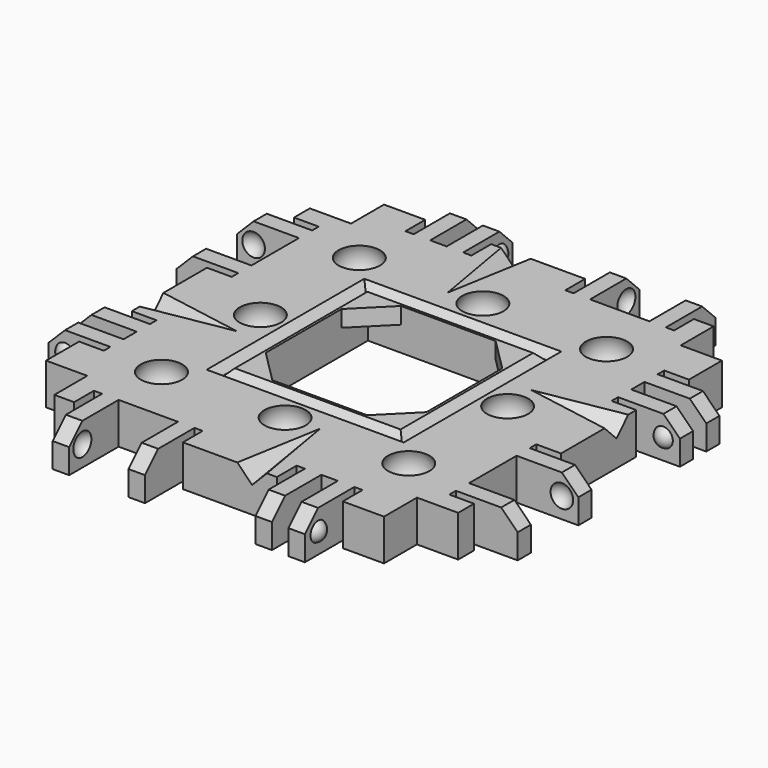
from build123d import *

# Parameters (mm, degrees)
SPHERE084_PLACEMENT_ANGLE   = 90
SPHERE086_PLACEMENT_ANGLE   = 90
SPHERE088_PLACEMENT_ANGLE   = -90
CYLINDER032_R               = 1.7
CYLINDER032_DEPTH           = 10
CYLINDER033_R               = 1.7
CYLINDER033_DEPTH           = 10
CYLINDER033_PLACEMENT_ANGLE = -90
CYLINDER031_R               = 1.7
CYLINDER031_DEPTH           = 10
CYLINDER031_PLACEMENT_ANGLE = 90
CYLINDER030_R               = 1.7
CYLINDER030_DEPTH           = 10
CYLINDER029_R               = 1.7
CYLINDER029_DEPTH           = 10
CYLINDER029_PLACEMENT_ANGLE = 90
BOX208_W                    = 10
BOX208_H                    = 15
BOX208_DEPTH                = 10
BOX208_ROLL_ANGLE           = 14.001942
BOX208_PITCH_ANGLE          = -44.136029
BOX208_PLACEMENT_ANGLE      = -99.851076
BOX207_W                    = 10
BOX207_H                    = 15
BOX207_DEPTH                = 10
BOX207_ROLL_ANGLE           = 14.001942
BOX207_PITCH_ANGLE          = -44.136029
BOX207_PLACEMENT_ANGLE      = 170.148924
BOX206_W                    = 10
BOX206_H                    = 15
BOX206_DEPTH                = 10
BOX206_ROLL_ANGLE           = 14.001942
BOX206_PITCH_ANGLE          = -44.136029
BOX206_PLACEMENT_ANGLE      = 80.148924
BOX086_W                    = 10
BOX086_H                    = 15
BOX086_DEPTH                = 10
BOX086_ROLL_ANGLE           = 14.001942
BOX086_PITCH_ANGLE          = -44.136029
BOX086_PLACEMENT_ANGLE      = -9.851076
BOX085_W                    = 19.5
BOX085_H                    = 19.5
BOX085_DEPTH                = 15
BOX076_W                    = 19.5
BOX076_H                    = 19.5
BOX076_DEPTH                = 15
CHAMFER008_SIZE             = 4
CYLINDER025_R               = 1.7
CYLINDER025_DEPTH           = 10
CYLINDER026_R               = 1.7
CYLINDER026_DEPTH           = 10
CYLINDER024_R               = 1.7
CYLINDER024_DEPTH           = 10
BOX169_W                    = 13
BOX169_H                    = 40
BOX169_DEPTH                = 10
BOX169_PITCH_ANGLE          = -45
BOX177_W                    = 12
BOX177_H                    = 44
BOX177_DEPTH                = 10
BOX176_W                    = 20
BOX176_H                    = 44
BOX176_DEPTH                = 10
BOX172_W                    = 4
BOX172_H                    = 1
BOX172_DEPTH                = 7
BOX174_W                    = 4
BOX174_H                    = 1
BOX174_DEPTH                = 7
BOX171_W                    = 4
BOX171_H                    = 2
BOX171_DEPTH                = 7
BOX173_W                    = 4
BOX173_H                    = 1
BOX173_DEPTH                = 7
BOX170_W                    = 4
BOX170_H                    = 1
BOX170_DEPTH                = 7
BOX175_W                    = 4
BOX175_H                    = 7.2
BOX175_DEPTH                = 7
BOX165_W                    = 10
BOX165_H                    = 2
BOX165_DEPTH                = 7
BOX166_W                    = 10
BOX166_H                    = 2
BOX166_DEPTH                = 7
BOX167_W                    = 10
BOX167_H                    = 2
BOX167_DEPTH                = 7
BOX168_W                    = 10
BOX168_H                    = 2
BOX168_DEPTH                = 7
BOX164_W                    = 5
BOX164_H                    = 40
BOX164_DEPTH                = 7
CUT069_PLACEMENT_ANGLE      = 90
BOX191_W                    = 13
BOX191_H                    = 40
BOX191_DEPTH                = 10
BOX191_PITCH_ANGLE          = -45
BOX187_W                    = 12
BOX187_H                    = 44
BOX187_DEPTH                = 10
BOX180_W                    = 20
BOX180_H                    = 44
BOX180_DEPTH                = 10
BOX182_W                    = 4
BOX182_H                    = 1
BOX182_DEPTH                = 7
BOX184_W                    = 4
BOX184_H                    = 1
BOX184_DEPTH                = 7
BOX186_W                    = 4
BOX186_H                    = 2
BOX186_DEPTH                = 7
BOX185_W                    = 4
BOX185_H                    = 1
BOX185_DEPTH                = 7
BOX189_W                    = 4
BOX189_H                    = 1
BOX189_DEPTH                = 7
BOX181_W                    = 4
BOX181_H                    = 7.2
BOX181_DEPTH                = 7
BOX190_W                    = 10
BOX190_H                    = 2
BOX190_DEPTH                = 7
BOX179_W                    = 10
BOX179_H                    = 2
BOX179_DEPTH                = 7
BOX183_W                    = 10
BOX183_H                    = 2
BOX183_DEPTH                = 7
BOX188_W                    = 10
BOX188_H                    = 2
BOX188_DEPTH                = 7
BOX178_W                    = 5
BOX178_H                    = 40
BOX178_DEPTH                = 7
CUT074_PLACEMENT_ANGLE      = 180
BOX193_W                    = 13
BOX193_H                    = 40
BOX193_DEPTH                = 10
BOX193_PITCH_ANGLE          = -45
BOX203_W                    = 12
BOX203_H                    = 44
BOX203_DEPTH                = 10
BOX194_W                    = 20
BOX194_H                    = 44
BOX194_DEPTH                = 10
BOX198_W                    = 4
BOX198_H                    = 1
BOX198_DEPTH                = 7
BOX204_W                    = 4
BOX204_H                    = 1
BOX204_DEPTH                = 7
BOX201_W                    = 4
BOX201_H                    = 2
BOX201_DEPTH                = 7
BOX200_W                    = 4
BOX200_H                    = 1
BOX200_DEPTH                = 7
BOX197_W                    = 4
BOX197_H                    = 1
BOX197_DEPTH                = 7
BOX199_W                    = 4
BOX199_H                    = 7.2
BOX199_DEPTH                = 7
BOX192_W                    = 10
BOX192_H                    = 2
BOX192_DEPTH                = 7
BOX195_W                    = 10
BOX195_H                    = 2
BOX195_DEPTH                = 7
BOX202_W                    = 10
BOX202_H                    = 2
BOX202_DEPTH                = 7
BOX205_W                    = 10
BOX205_H                    = 2
BOX205_DEPTH                = 7
BOX196_W                    = 5
BOX196_H                    = 40
BOX196_DEPTH                = 7
CUT079_PLACEMENT_ANGLE      = -90
BOX006_W                    = 13
BOX006_H                    = 40
BOX006_DEPTH                = 10
BOX006_PITCH_ANGLE          = -45
BOX149_W                    = 12
BOX149_H                    = 44
BOX149_DEPTH                = 10
BOX013_W                    = 20
BOX013_H                    = 44
BOX013_DEPTH                = 10
BOX009_W                    = 4
BOX009_H                    = 1
BOX009_DEPTH                = 7
BOX011_W                    = 4
BOX011_H                    = 1
BOX011_DEPTH                = 7
BOX008_W                    = 4
BOX008_H                    = 2
BOX008_DEPTH                = 7
BOX010_W                    = 4
BOX010_H                    = 1
BOX010_DEPTH                = 7
BOX007_W                    = 4
BOX007_H                    = 1
BOX007_DEPTH                = 7
BOX012_W                    = 4
BOX012_H                    = 7.2
BOX012_DEPTH                = 7
BOX002_W                    = 10
BOX002_H                    = 2
BOX002_DEPTH                = 7
BOX003_W                    = 10
BOX003_H                    = 2
BOX003_DEPTH                = 7
BOX004_W                    = 10
BOX004_H                    = 2
BOX004_DEPTH                = 7
BOX005_W                    = 10
BOX005_H                    = 2
BOX005_DEPTH                = 7
BOX001_W                    = 5
BOX001_H                    = 40
BOX001_DEPTH                = 7
BOX084_W                    = 20
BOX084_H                    = 20
BOX084_DEPTH                = 14
BOX083_W                    = 24
BOX083_H                    = 24
BOX083_DEPTH                = 10
CHAMFER007_SIZE             = 0.95
BOX_W                       = 40
BOX_H                       = 40
BOX_DEPTH                   = 5


with BuildPart() as sphere087:
    # Sphere087 → Sphere087 (revolve)
    with BuildSketch(Plane(origin=(-15, 0, 1.7), x_dir=(-1, 0, 0), z_dir=(0, 1, 0))):
        with BuildLine():
            ThreePointArc((0, -2.825), (2.825, 0), (0, 2.825))
            Line((0, 2.825), (0, -2.825))
        make_face()
    revolve(axis=Axis((-15, 0, 1.7), (0, 0, 1)))


with BuildPart() as mag_hole001:
    # Sphere084 → Sphere084 (revolve)
    with BuildSketch(Plane.XZ):
        with BuildLine():
            ThreePointArc((0, -2.83), (2.83, 0), (0, 2.83))
            Line((0, 2.83), (0, -2.83))
        make_face()
    revolve(axis=Axis((0, 0, 0), (0, 0, 1)))


with BuildPart() as mag_hole001_1:
    # Sphere084 placement: moved
    add(mag_hole001.part.moved(Location((15, -15, 1.7))).rotate(Axis((15, -15, 1.7), (0, 0, 1)), SPHERE084_PLACEMENT_ANGLE))


with BuildPart() as sphere086:
    # Sphere086 → Sphere086 (revolve)
    with BuildSketch(Plane.XZ):
        with BuildLine():
            ThreePointArc((0, -2.825), (2.825, 0), (0, 2.825))
            Line((0, 2.825), (0, -2.825))
        make_face()
    revolve(axis=Axis((0, 0, 0), (0, 0, 1)))


with BuildPart() as sphere086_1:
    # Sphere086 placement: moved
    add(sphere086.part.moved(Location((0, 15, 1.7))).rotate(Axis((0, 15, 1.7), (0, 0, 1)), SPHERE086_PLACEMENT_ANGLE))


with BuildPart() as sphere088:
    # Sphere088 → Sphere088 (revolve)
    with BuildSketch(Plane.XZ):
        with BuildLine():
            ThreePointArc((0, -2.825), (2.825, 0), (0, 2.825))
            Line((0, 2.825), (0, -2.825))
        make_face()
    revolve(axis=Axis((0, 0, 0), (0, 0, 1)))


with BuildPart() as sphere088_1:
    # Sphere088 placement: moved
    add(sphere088.part.moved(Location((0, -15, 1.7))).rotate(Axis((0, -15, 1.7), (0, 0, 1)), SPHERE088_PLACEMENT_ANGLE))


with BuildPart() as cylinder032:
    # Cylinder032 → Cylinder032 (new body)
    with BuildSketch(Plane(origin=(-15, 0, -5), x_dir=(-1, 0, 0), z_dir=(0, 0, 1))):
        Circle(CYLINDER032_R)
    extrude(amount=CYLINDER032_DEPTH)


with BuildPart() as cylinder033:
    # Cylinder033 → Cylinder033 (new body)
    with BuildSketch(Plane.XY):
        Circle(CYLINDER033_R)
    extrude(amount=CYLINDER033_DEPTH)


with BuildPart() as cylinder033_1:
    # Cylinder033 placement: moved
    add(cylinder033.part.moved(Location((0, -15, -5))).rotate(Axis((0, -15, -5), (0, 0, 1)), CYLINDER033_PLACEMENT_ANGLE))


with BuildPart() as mag_hole002:
    # Sphere085 → Sphere085 (revolve)
    with BuildSketch(Plane(origin=(15, 15, 1.7), x_dir=(-1, 0, 0), z_dir=(0, 1, 0))):
        with BuildLine():
            ThreePointArc((0, -2.83), (2.83, 0), (0, 2.83))
            Line((0, 2.83), (0, -2.83))
        make_face()
    revolve(axis=Axis((15, 15, 1.7), (0, 0, 1)))


with BuildPart() as cylinder031:
    # Cylinder031 → Cylinder031 (new body)
    with BuildSketch(Plane.XY):
        Circle(CYLINDER031_R)
    extrude(amount=CYLINDER031_DEPTH)


with BuildPart() as cylinder031_1:
    # Cylinder031 placement: moved
    add(cylinder031.part.moved(Location((0, 15, -5))).rotate(Axis((0, 15, -5), (0, 0, 1)), CYLINDER031_PLACEMENT_ANGLE))


with BuildPart() as cylinder030:
    # Cylinder030 → Cylinder030 (new body)
    with BuildSketch(Plane(origin=(15, 15, -5), x_dir=(-1, 0, 0), z_dir=(0, 0, 1))):
        Circle(CYLINDER030_R)
    extrude(amount=CYLINDER030_DEPTH)


with BuildPart() as fusion103007:
    # Cylinder029 → Cylinder029 (new body)
    with BuildSketch(Plane.XY):
        Circle(CYLINDER029_R)
    extrude(amount=CYLINDER029_DEPTH)


with BuildPart() as fusion103007_1:
    # Cylinder029 placement: moved
    add(fusion103007.part.moved(Location((15, -15, -5))).rotate(Axis((15, -15, -5), (0, 0, 1)), CYLINDER029_PLACEMENT_ANGLE))

    # Fusion103007: union Sphere087, Mag Hole001, Sphere086, Sphere088, Cylinder032, Cylinder033, Mag Hole002, Cylinder031, Cylinder030
    add(sphere087.part)
    add(mag_hole001_1.part)
    add(sphere086_1.part)
    add(sphere088_1.part)
    add(cylinder032.part)
    add(cylinder033_1.part)
    add(mag_hole002.part)
    add(cylinder031_1.part)
    add(cylinder030.part)


with BuildPart() as cube179:
    # Box208 → Box208 (new body)
    with BuildSketch(Plane.XY):
        with Locations((5, 7.5)):
            Rectangle(BOX208_W, BOX208_H)
    extrude(amount=BOX208_DEPTH)


with BuildPart() as cube179_1:
    # Box208 roll: moved
    add(cube179.part.rotate(Axis((0, 0, 0), (1, 0, 0)), BOX208_ROLL_ANGLE))


with BuildPart() as cube179_2:
    # Box208 pitch: moved
    add(cube179_1.part.rotate(Axis((0, 0, 0), (0, 1, 0)), BOX208_PITCH_ANGLE))


with BuildPart() as cube179_3:
    # Box208 placement: moved
    add(cube179_2.part.moved(Location((-26, -4, 1))).rotate(Axis((-26, -4, 1), (0, 0, 1)), BOX208_PLACEMENT_ANGLE))


with BuildPart() as cube178:
    # Box207 → Box207 (new body)
    with BuildSketch(Plane.XY):
        with Locations((5, 7.5)):
            Rectangle(BOX207_W, BOX207_H)
    extrude(amount=BOX207_DEPTH)


with BuildPart() as cube178_1:
    # Box207 roll: moved
    add(cube178.part.rotate(Axis((0, 0, 0), (1, 0, 0)), BOX207_ROLL_ANGLE))


with BuildPart() as cube178_2:
    # Box207 pitch: moved
    add(cube178_1.part.rotate(Axis((0, 0, 0), (0, 1, 0)), BOX207_PITCH_ANGLE))


with BuildPart() as cube178_3:
    # Box207 placement: moved
    add(cube178_2.part.moved(Location((-4, 26, 1))).rotate(Axis((-4, 26, 1), (0, 0, 1)), BOX207_PLACEMENT_ANGLE))


with BuildPart() as cube177:
    # Box206 → Box206 (new body)
    with BuildSketch(Plane.XY):
        with Locations((5, 7.5)):
            Rectangle(BOX206_W, BOX206_H)
    extrude(amount=BOX206_DEPTH)


with BuildPart() as cube177_1:
    # Box206 roll: moved
    add(cube177.part.rotate(Axis((0, 0, 0), (1, 0, 0)), BOX206_ROLL_ANGLE))


with BuildPart() as cube177_2:
    # Box206 pitch: moved
    add(cube177_1.part.rotate(Axis((0, 0, 0), (0, 1, 0)), BOX206_PITCH_ANGLE))


with BuildPart() as cube177_3:
    # Box206 placement: moved
    add(cube177_2.part.moved(Location((26, 4, 1))).rotate(Axis((26, 4, 1), (0, 0, 1)), BOX206_PLACEMENT_ANGLE))


with BuildPart() as glue_dents:
    # Box086 → Box086 (new body)
    with BuildSketch(Plane.XY):
        with Locations((5, 7.5)):
            Rectangle(BOX086_W, BOX086_H)
    extrude(amount=BOX086_DEPTH)


with BuildPart() as glue_dents_1:
    # Box086 roll: moved
    add(glue_dents.part.rotate(Axis((0, 0, 0), (1, 0, 0)), BOX086_ROLL_ANGLE))


with BuildPart() as glue_dents_2:
    # Box086 pitch: moved
    add(glue_dents_1.part.rotate(Axis((0, 0, 0), (0, 1, 0)), BOX086_PITCH_ANGLE))


with BuildPart() as glue_dents_3:
    # Box086 placement: moved
    add(glue_dents_2.part.moved(Location((4, -26, 1))).rotate(Axis((4, -26, 1), (0, 0, 1)), BOX086_PLACEMENT_ANGLE))

    # Fusion078: union Cube179, Cube178, Cube177
    add(cube179_3.part)
    add(cube178_3.part)
    add(cube177_3.part)


with BuildPart() as cube069:
    # Box085 → Box085 (new body)
    with BuildSketch(Plane(origin=(-9.75, -9.75, -14), x_dir=(1, 0, 0), z_dir=(0, 0, 1))):
        with Locations((9.75, 9.75)):
            Rectangle(BOX085_W, BOX085_H)
    extrude(amount=BOX085_DEPTH)


with BuildPart() as obj1:
    # Box076 → Box076 (new body)
    with BuildSketch(Plane(origin=(-9.75, -9.75, -3), x_dir=(1, 0, 0), z_dir=(0, 0, 1))):
        with Locations((9.75, 9.75)):
            Rectangle(BOX076_W, BOX076_H)
    extrude(amount=BOX076_DEPTH)

    # Chamfer008
    chamfer008_edges = [obj1.edges().sort_by_distance(p)[0] for p in [
        (-9.75, -9.75, 4.5),
        (-9.75, 9.75, 4.5),
        (9.75, -9.75, 4.5),
        (9.75, 9.75, 4.5),
    ]]
    chamfer(chamfer008_edges, length=CHAMFER008_SIZE)


with BuildPart() as cylinder025:
    # Cylinder025 → Cylinder025 (new body)
    with BuildSketch(Plane(origin=(15, 0, -5), x_dir=(1, 0, 0), z_dir=(0, 0, 1))):
        Circle(CYLINDER025_R)
    extrude(amount=CYLINDER025_DEPTH)


with BuildPart() as cylinder026:
    # Cylinder026 → Cylinder026 (new body)
    with BuildSketch(Plane(origin=(-15, 15, -5), x_dir=(1, 0, 0), z_dir=(0, 0, 1))):
        Circle(CYLINDER026_R)
    extrude(amount=CYLINDER026_DEPTH)


with BuildPart() as screw_holes_to_remove_ball_mags:
    # Cylinder024 → Cylinder024 (new body)
    with BuildSketch(Plane(origin=(-15, -15, -5), x_dir=(1, 0, 0), z_dir=(0, 0, 1))):
        Circle(CYLINDER024_R)
    extrude(amount=CYLINDER024_DEPTH)

    # Fusion052: union Cylinder025, Cylinder026
    add(cylinder025.part)
    add(cylinder026.part)


with BuildPart() as chamfer_cube002:
    # Box169 → Box169 (new body)
    with BuildSketch(Plane.XY):
        with Locations((6.5, 20)):
            Rectangle(BOX169_W, BOX169_H)
    extrude(amount=BOX169_DEPTH)


with BuildPart() as chamfer_cube002_1:
    # Box169 pitch: moved
    add(chamfer_cube002.part.rotate(Axis((0, 0, 0), (0, 1, 0)), BOX169_PITCH_ANGLE))


with BuildPart() as chamfer_cube002_2:
    # Box169 placement: moved
    add(chamfer_cube002_1.part.moved(Location((-11.69, 0, -1.19))))


with BuildPart() as re_level_edge_clip_block005:
    # Box177 → Box177 (new body)
    with BuildSketch(Plane(origin=(-21.5, -2, -7), x_dir=(1, 0, 0), z_dir=(0, 0, 1))):
        with Locations((6, 22)):
            Rectangle(BOX177_W, BOX177_H)
    extrude(amount=BOX177_DEPTH)


with BuildPart() as re_level_edge_clip_block004:
    # Box176 → Box176 (new body)
    with BuildSketch(Plane(origin=(-19, -2, 3), x_dir=(1, 0, 0), z_dir=(0, 0, 1))):
        with Locations((10, 22)):
            Rectangle(BOX176_W, BOX176_H)
    extrude(amount=BOX176_DEPTH)


with BuildPart() as cube151:
    # Box172 → Box172 (new body)
    with BuildSketch(Plane(origin=(-6, 12, -2), x_dir=(1, 0, 0), z_dir=(0, 0, 1))):
        with Locations((2, 0.5)):
            Rectangle(BOX172_W, BOX172_H)
    extrude(amount=BOX172_DEPTH)


with BuildPart() as cube153:
    # Box174 → Box174 (new body)
    with BuildSketch(Plane(origin=(-6, 36.6, -2), x_dir=(1, 0, 0), z_dir=(0, 0, 1))):
        with Locations((2, 0.5)):
            Rectangle(BOX174_W, BOX174_H)
    extrude(amount=BOX174_DEPTH)


with BuildPart() as cube150:
    # Box171 → Box171 (new body)
    with BuildSketch(Plane(origin=(-6, 8, -2), x_dir=(1, 0, 0), z_dir=(0, 0, 1))):
        with Locations((2, 1)):
            Rectangle(BOX171_W, BOX171_H)
    extrude(amount=BOX171_DEPTH)


with BuildPart() as cube152:
    # Box173 → Box173 (new body)
    with BuildSketch(Plane(origin=(-6, 24.4, -2), x_dir=(1, 0, 0), z_dir=(0, 0, 1))):
        with Locations((2, 0.5)):
            Rectangle(BOX173_W, BOX173_H)
    extrude(amount=BOX173_DEPTH)


with BuildPart() as cube149:
    # Box170 → Box170 (new body)
    with BuildSketch(Plane(origin=(-6, 5, -2), x_dir=(1, 0, 0), z_dir=(0, 0, 1))):
        with Locations((2, 0.5)):
            Rectangle(BOX170_W, BOX170_H)
    extrude(amount=BOX170_DEPTH)


with BuildPart() as extra_holes_for_clips002:
    # Box175 → Box175 (new body)
    with BuildSketch(Plane(origin=(-6, 27.4, -2), x_dir=(1, 0, 0), z_dir=(0, 0, 1))):
        with Locations((2, 3.6)):
            Rectangle(BOX175_W, BOX175_H)
    extrude(amount=BOX175_DEPTH)

    # Fusion061: union Cube151, Cube153, Cube150, Cube152, Cube149
    add(cube151.part)
    add(cube153.part)
    add(cube150.part)
    add(cube152.part)
    add(cube149.part)


with BuildPart() as sphere058:
    # Sphere058 → Sphere058 (revolve)
    with BuildSketch(Plane(origin=(-7.5, 34, 0.5), x_dir=(1, 0, 0), z_dir=(0, -1, 0))):
        with BuildLine():
            ThreePointArc((0, -1.5), (1.5, 0), (0, 1.5))
            Line((0, 1.5), (0, -1.5))
        make_face()
    revolve(axis=Axis((-7.5, 34, 0.5), (0, 0, 1)))


with BuildPart() as holes002:
    # Sphere057 → Sphere057 (revolve)
    with BuildSketch(Plane(origin=(-7.5, 28, 0.5), x_dir=(1, 0, 0), z_dir=(0, -1, 0))):
        with BuildLine():
            ThreePointArc((0, -1.5), (1.5, 0), (0, 1.5))
            Line((0, 1.5), (0, -1.5))
        make_face()
    revolve(axis=Axis((-7.5, 28, 0.5), (0, 0, 1)))

    # Fusion063: union Sphere058
    add(sphere058.part)


with BuildPart() as cube145:
    # Box165 → Box165 (new body)
    with BuildSketch(Plane(origin=(-15, 6, -2), x_dir=(1, 0, 0), z_dir=(0, 0, 1))):
        with Locations((5, 1)):
            Rectangle(BOX165_W, BOX165_H)
    extrude(amount=BOX165_DEPTH)


with BuildPart() as cube146:
    # Box166 → Box166 (new body)
    with BuildSketch(Plane(origin=(-15, 10, -2), x_dir=(1, 0, 0), z_dir=(0, 0, 1))):
        with Locations((5, 1)):
            Rectangle(BOX166_W, BOX166_H)
    extrude(amount=BOX166_DEPTH)


with BuildPart() as cube147:
    # Box167 → Box167 (new body)
    with BuildSketch(Plane(origin=(-15, 25.4, -2), x_dir=(1, 0, 0), z_dir=(0, 0, 1))):
        with Locations((5, 1)):
            Rectangle(BOX167_W, BOX167_H)
    extrude(amount=BOX167_DEPTH)


with BuildPart() as cube148:
    # Box168 → Box168 (new body)
    with BuildSketch(Plane(origin=(-15, 34.6, -2), x_dir=(1, 0, 0), z_dir=(0, 0, 1))):
        with Locations((5, 1)):
            Rectangle(BOX168_W, BOX168_H)
    extrude(amount=BOX168_DEPTH)


with BuildPart() as fusion064:
    # Box164 → Box164 (new body)
    with BuildSketch(Plane(origin=(-5, 0, -2), x_dir=(1, 0, 0), z_dir=(0, 0, 1))):
        with Locations((2.5, 20)):
            Rectangle(BOX164_W, BOX164_H)
    extrude(amount=BOX164_DEPTH)

    # Fusion064: union Cube145, Cube146, Cube147, Cube148
    add(cube145.part)
    add(cube146.part)
    add(cube147.part)
    add(cube148.part)


with BuildPart() as sphere056:
    # Sphere056 → Sphere056 (revolve)
    with BuildSketch(Plane(origin=(-7.5, 11.5, 0.5), x_dir=(1, 0, 0), z_dir=(0, -1, 0))):
        with BuildLine():
            ThreePointArc((0, -1.25), (1.25, 0), (0, 1.25))
            Line((0, 1.25), (0, -1.25))
        make_face()
    revolve(axis=Axis((-7.5, 11.5, 0.5), (0, 0, 1)))


with BuildPart() as edge_clips001:
    # Sphere055 → Sphere055 (revolve)
    with BuildSketch(Plane(origin=(-7.5, 6.5, 0.5), x_dir=(1, 0, 0), z_dir=(0, -1, 0))):
        with BuildLine():
            ThreePointArc((0, -1.25), (1.25, 0), (0, 1.25))
            Line((0, 1.25), (0, -1.25))
        make_face()
    revolve(axis=Axis((-7.5, 6.5, 0.5), (0, 0, 1)))

    # Fusion062: union Sphere056
    add(sphere056.part)

    # Fusion065: union Fusion064
    add(fusion064.part)

    # Cut065: cut Holes002
    add(holes002.part, mode=Mode.SUBTRACT)

    # Cut066: cut Extra Holes for Clips002
    add(extra_holes_for_clips002.part, mode=Mode.SUBTRACT)

    # Cut067: cut Re-level Edge Clip Block004
    add(re_level_edge_clip_block004.part, mode=Mode.SUBTRACT)

    # Cut068: cut Re-level Edge Clip Block005
    add(re_level_edge_clip_block005.part, mode=Mode.SUBTRACT)

    # Cut069: cut Chamfer Cube002
    add(chamfer_cube002_2.part, mode=Mode.SUBTRACT)


with BuildPart() as edge_clips001_1:
    # Cut069 placement: moved
    add(edge_clips001.part.moved(Location((20, -20, 0))).rotate(Axis((20, -20, 0), (0, 0, 1)), CUT069_PLACEMENT_ANGLE))


with BuildPart() as chamfer_cube003:
    # Box191 → Box191 (new body)
    with BuildSketch(Plane.XY):
        with Locations((6.5, 20)):
            Rectangle(BOX191_W, BOX191_H)
    extrude(amount=BOX191_DEPTH)


with BuildPart() as chamfer_cube003_1:
    # Box191 pitch: moved
    add(chamfer_cube003.part.rotate(Axis((0, 0, 0), (0, 1, 0)), BOX191_PITCH_ANGLE))


with BuildPart() as chamfer_cube003_2:
    # Box191 placement: moved
    add(chamfer_cube003_1.part.moved(Location((-11.69, 0, -1.19))))


with BuildPart() as re_level_edge_clip_block007:
    # Box187 → Box187 (new body)
    with BuildSketch(Plane(origin=(-21.5, -2, -7), x_dir=(1, 0, 0), z_dir=(0, 0, 1))):
        with Locations((6, 22)):
            Rectangle(BOX187_W, BOX187_H)
    extrude(amount=BOX187_DEPTH)


with BuildPart() as re_level_edge_clip_block006:
    # Box180 → Box180 (new body)
    with BuildSketch(Plane(origin=(-19, -2, 3), x_dir=(1, 0, 0), z_dir=(0, 0, 1))):
        with Locations((10, 22)):
            Rectangle(BOX180_W, BOX180_H)
    extrude(amount=BOX180_DEPTH)


with BuildPart() as cube158:
    # Box182 → Box182 (new body)
    with BuildSketch(Plane(origin=(-6, 12, -2), x_dir=(1, 0, 0), z_dir=(0, 0, 1))):
        with Locations((2, 0.5)):
            Rectangle(BOX182_W, BOX182_H)
    extrude(amount=BOX182_DEPTH)


with BuildPart() as cube160:
    # Box184 → Box184 (new body)
    with BuildSketch(Plane(origin=(-6, 36.6, -2), x_dir=(1, 0, 0), z_dir=(0, 0, 1))):
        with Locations((2, 0.5)):
            Rectangle(BOX184_W, BOX184_H)
    extrude(amount=BOX184_DEPTH)


with BuildPart() as cube162:
    # Box186 → Box186 (new body)
    with BuildSketch(Plane(origin=(-6, 8, -2), x_dir=(1, 0, 0), z_dir=(0, 0, 1))):
        with Locations((2, 1)):
            Rectangle(BOX186_W, BOX186_H)
    extrude(amount=BOX186_DEPTH)


with BuildPart() as cube161:
    # Box185 → Box185 (new body)
    with BuildSketch(Plane(origin=(-6, 24.4, -2), x_dir=(1, 0, 0), z_dir=(0, 0, 1))):
        with Locations((2, 0.5)):
            Rectangle(BOX185_W, BOX185_H)
    extrude(amount=BOX185_DEPTH)


with BuildPart() as cube164:
    # Box189 → Box189 (new body)
    with BuildSketch(Plane(origin=(-6, 5, -2), x_dir=(1, 0, 0), z_dir=(0, 0, 1))):
        with Locations((2, 0.5)):
            Rectangle(BOX189_W, BOX189_H)
    extrude(amount=BOX189_DEPTH)


with BuildPart() as extra_holes_for_clips003:
    # Box181 → Box181 (new body)
    with BuildSketch(Plane(origin=(-6, 27.4, -2), x_dir=(1, 0, 0), z_dir=(0, 0, 1))):
        with Locations((2, 3.6)):
            Rectangle(BOX181_W, BOX181_H)
    extrude(amount=BOX181_DEPTH)

    # Fusion067: union Cube158, Cube160, Cube162, Cube161, Cube164
    add(cube158.part)
    add(cube160.part)
    add(cube162.part)
    add(cube161.part)
    add(cube164.part)


with BuildPart() as sphere060:
    # Sphere060 → Sphere060 (revolve)
    with BuildSketch(Plane(origin=(-7.5, 34, 0.5), x_dir=(1, 0, 0), z_dir=(0, -1, 0))):
        with BuildLine():
            ThreePointArc((0, -1.5), (1.5, 0), (0, 1.5))
            Line((0, 1.5), (0, -1.5))
        make_face()
    revolve(axis=Axis((-7.5, 34, 0.5), (0, 0, 1)))


with BuildPart() as holes003:
    # Sphere062 → Sphere062 (revolve)
    with BuildSketch(Plane(origin=(-7.5, 28, 0.5), x_dir=(1, 0, 0), z_dir=(0, -1, 0))):
        with BuildLine():
            ThreePointArc((0, -1.5), (1.5, 0), (0, 1.5))
            Line((0, 1.5), (0, -1.5))
        make_face()
    revolve(axis=Axis((-7.5, 28, 0.5), (0, 0, 1)))

    # Fusion066: union Sphere060
    add(sphere060.part)


with BuildPart() as cube165:
    # Box190 → Box190 (new body)
    with BuildSketch(Plane(origin=(-15, 6, -2), x_dir=(1, 0, 0), z_dir=(0, 0, 1))):
        with Locations((5, 1)):
            Rectangle(BOX190_W, BOX190_H)
    extrude(amount=BOX190_DEPTH)


with BuildPart() as cube156:
    # Box179 → Box179 (new body)
    with BuildSketch(Plane(origin=(-15, 10, -2), x_dir=(1, 0, 0), z_dir=(0, 0, 1))):
        with Locations((5, 1)):
            Rectangle(BOX179_W, BOX179_H)
    extrude(amount=BOX179_DEPTH)


with BuildPart() as cube159:
    # Box183 → Box183 (new body)
    with BuildSketch(Plane(origin=(-15, 25.4, -2), x_dir=(1, 0, 0), z_dir=(0, 0, 1))):
        with Locations((5, 1)):
            Rectangle(BOX183_W, BOX183_H)
    extrude(amount=BOX183_DEPTH)


with BuildPart() as cube163:
    # Box188 → Box188 (new body)
    with BuildSketch(Plane(origin=(-15, 34.6, -2), x_dir=(1, 0, 0), z_dir=(0, 0, 1))):
        with Locations((5, 1)):
            Rectangle(BOX188_W, BOX188_H)
    extrude(amount=BOX188_DEPTH)


with BuildPart() as fusion069:
    # Box178 → Box178 (new body)
    with BuildSketch(Plane(origin=(-5, 0, -2), x_dir=(1, 0, 0), z_dir=(0, 0, 1))):
        with Locations((2.5, 20)):
            Rectangle(BOX178_W, BOX178_H)
    extrude(amount=BOX178_DEPTH)

    # Fusion069: union Cube165, Cube156, Cube159, Cube163
    add(cube165.part)
    add(cube156.part)
    add(cube159.part)
    add(cube163.part)


with BuildPart() as sphere061:
    # Sphere061 → Sphere061 (revolve)
    with BuildSketch(Plane(origin=(-7.5, 11.5, 0.5), x_dir=(1, 0, 0), z_dir=(0, -1, 0))):
        with BuildLine():
            ThreePointArc((0, -1.25), (1.25, 0), (0, 1.25))
            Line((0, 1.25), (0, -1.25))
        make_face()
    revolve(axis=Axis((-7.5, 11.5, 0.5), (0, 0, 1)))


with BuildPart() as edge_clips002:
    # Sphere059 → Sphere059 (revolve)
    with BuildSketch(Plane(origin=(-7.5, 6.5, 0.5), x_dir=(1, 0, 0), z_dir=(0, -1, 0))):
        with BuildLine():
            ThreePointArc((0, -1.25), (1.25, 0), (0, 1.25))
            Line((0, 1.25), (0, -1.25))
        make_face()
    revolve(axis=Axis((-7.5, 6.5, 0.5), (0, 0, 1)))

    # Fusion070: union Sphere061
    add(sphere061.part)

    # Fusion068: union Fusion069
    add(fusion069.part)

    # Cut073: cut Holes003
    add(holes003.part, mode=Mode.SUBTRACT)

    # Cut070: cut Extra Holes for Clips003
    add(extra_holes_for_clips003.part, mode=Mode.SUBTRACT)

    # Cut071: cut Re-level Edge Clip Block006
    add(re_level_edge_clip_block006.part, mode=Mode.SUBTRACT)

    # Cut072: cut Re-level Edge Clip Block007
    add(re_level_edge_clip_block007.part, mode=Mode.SUBTRACT)

    # Cut074: cut Chamfer Cube003
    add(chamfer_cube003_2.part, mode=Mode.SUBTRACT)


with BuildPart() as edge_clips002_1:
    # Cut074 placement: moved
    add(edge_clips002.part.moved(Location((20, 20, 0))).rotate(Axis((20, 20, 0), (0, 0, 1)), CUT074_PLACEMENT_ANGLE))


with BuildPart() as chamfer_cube004:
    # Box193 → Box193 (new body)
    with BuildSketch(Plane.XY):
        with Locations((6.5, 20)):
            Rectangle(BOX193_W, BOX193_H)
    extrude(amount=BOX193_DEPTH)


with BuildPart() as chamfer_cube004_1:
    # Box193 pitch: moved
    add(chamfer_cube004.part.rotate(Axis((0, 0, 0), (0, 1, 0)), BOX193_PITCH_ANGLE))


with BuildPart() as chamfer_cube004_2:
    # Box193 placement: moved
    add(chamfer_cube004_1.part.moved(Location((-11.69, 0, -1.19))))


with BuildPart() as re_level_edge_clip_block009:
    # Box203 → Box203 (new body)
    with BuildSketch(Plane(origin=(-21.5, -2, -7), x_dir=(1, 0, 0), z_dir=(0, 0, 1))):
        with Locations((6, 22)):
            Rectangle(BOX203_W, BOX203_H)
    extrude(amount=BOX203_DEPTH)


with BuildPart() as re_level_edge_clip_block008:
    # Box194 → Box194 (new body)
    with BuildSketch(Plane(origin=(-19, -2, 3), x_dir=(1, 0, 0), z_dir=(0, 0, 1))):
        with Locations((10, 22)):
            Rectangle(BOX194_W, BOX194_H)
    extrude(amount=BOX194_DEPTH)


with BuildPart() as cube170:
    # Box198 → Box198 (new body)
    with BuildSketch(Plane(origin=(-6, 12, -2), x_dir=(1, 0, 0), z_dir=(0, 0, 1))):
        with Locations((2, 0.5)):
            Rectangle(BOX198_W, BOX198_H)
    extrude(amount=BOX198_DEPTH)


with BuildPart() as cube175:
    # Box204 → Box204 (new body)
    with BuildSketch(Plane(origin=(-6, 36.6, -2), x_dir=(1, 0, 0), z_dir=(0, 0, 1))):
        with Locations((2, 0.5)):
            Rectangle(BOX204_W, BOX204_H)
    extrude(amount=BOX204_DEPTH)


with BuildPart() as cube173:
    # Box201 → Box201 (new body)
    with BuildSketch(Plane(origin=(-6, 8, -2), x_dir=(1, 0, 0), z_dir=(0, 0, 1))):
        with Locations((2, 1)):
            Rectangle(BOX201_W, BOX201_H)
    extrude(amount=BOX201_DEPTH)


with BuildPart() as cube172:
    # Box200 → Box200 (new body)
    with BuildSketch(Plane(origin=(-6, 24.4, -2), x_dir=(1, 0, 0), z_dir=(0, 0, 1))):
        with Locations((2, 0.5)):
            Rectangle(BOX200_W, BOX200_H)
    extrude(amount=BOX200_DEPTH)


with BuildPart() as cube169:
    # Box197 → Box197 (new body)
    with BuildSketch(Plane(origin=(-6, 5, -2), x_dir=(1, 0, 0), z_dir=(0, 0, 1))):
        with Locations((2, 0.5)):
            Rectangle(BOX197_W, BOX197_H)
    extrude(amount=BOX197_DEPTH)


with BuildPart() as extra_holes_for_clips004:
    # Box199 → Box199 (new body)
    with BuildSketch(Plane(origin=(-6, 27.4, -2), x_dir=(1, 0, 0), z_dir=(0, 0, 1))):
        with Locations((2, 3.6)):
            Rectangle(BOX199_W, BOX199_H)
    extrude(amount=BOX199_DEPTH)

    # Fusion074: union Cube170, Cube175, Cube173, Cube172, Cube169
    add(cube170.part)
    add(cube175.part)
    add(cube173.part)
    add(cube172.part)
    add(cube169.part)


with BuildPart() as sphere066:
    # Sphere066 → Sphere066 (revolve)
    with BuildSketch(Plane(origin=(-7.5, 34, 0.5), x_dir=(1, 0, 0), z_dir=(0, -1, 0))):
        with BuildLine():
            ThreePointArc((0, -1.5), (1.5, 0), (0, 1.5))
            Line((0, 1.5), (0, -1.5))
        make_face()
    revolve(axis=Axis((-7.5, 34, 0.5), (0, 0, 1)))


with BuildPart() as holes004:
    # Sphere063 → Sphere063 (revolve)
    with BuildSketch(Plane(origin=(-7.5, 28, 0.5), x_dir=(1, 0, 0), z_dir=(0, -1, 0))):
        with BuildLine():
            ThreePointArc((0, -1.5), (1.5, 0), (0, 1.5))
            Line((0, 1.5), (0, -1.5))
        make_face()
    revolve(axis=Axis((-7.5, 28, 0.5), (0, 0, 1)))

    # Fusion071: union Sphere066
    add(sphere066.part)


with BuildPart() as cube166:
    # Box192 → Box192 (new body)
    with BuildSketch(Plane(origin=(-15, 6, -2), x_dir=(1, 0, 0), z_dir=(0, 0, 1))):
        with Locations((5, 1)):
            Rectangle(BOX192_W, BOX192_H)
    extrude(amount=BOX192_DEPTH)


with BuildPart() as cube167:
    # Box195 → Box195 (new body)
    with BuildSketch(Plane(origin=(-15, 10, -2), x_dir=(1, 0, 0), z_dir=(0, 0, 1))):
        with Locations((5, 1)):
            Rectangle(BOX195_W, BOX195_H)
    extrude(amount=BOX195_DEPTH)


with BuildPart() as cube174:
    # Box202 → Box202 (new body)
    with BuildSketch(Plane(origin=(-15, 25.4, -2), x_dir=(1, 0, 0), z_dir=(0, 0, 1))):
        with Locations((5, 1)):
            Rectangle(BOX202_W, BOX202_H)
    extrude(amount=BOX202_DEPTH)


with BuildPart() as cube176:
    # Box205 → Box205 (new body)
    with BuildSketch(Plane(origin=(-15, 34.6, -2), x_dir=(1, 0, 0), z_dir=(0, 0, 1))):
        with Locations((5, 1)):
            Rectangle(BOX205_W, BOX205_H)
    extrude(amount=BOX205_DEPTH)


with BuildPart() as fusion072:
    # Box196 → Box196 (new body)
    with BuildSketch(Plane(origin=(-5, 0, -2), x_dir=(1, 0, 0), z_dir=(0, 0, 1))):
        with Locations((2.5, 20)):
            Rectangle(BOX196_W, BOX196_H)
    extrude(amount=BOX196_DEPTH)

    # Fusion072: union Cube166, Cube167, Cube174, Cube176
    add(cube166.part)
    add(cube167.part)
    add(cube174.part)
    add(cube176.part)


with BuildPart() as sphere064:
    # Sphere064 → Sphere064 (revolve)
    with BuildSketch(Plane(origin=(-7.5, 11.5, 0.5), x_dir=(1, 0, 0), z_dir=(0, -1, 0))):
        with BuildLine():
            ThreePointArc((0, -1.25), (1.25, 0), (0, 1.25))
            Line((0, 1.25), (0, -1.25))
        make_face()
    revolve(axis=Axis((-7.5, 11.5, 0.5), (0, 0, 1)))


with BuildPart() as edge_clips003:
    # Sphere065 → Sphere065 (revolve)
    with BuildSketch(Plane(origin=(-7.5, 6.5, 0.5), x_dir=(1, 0, 0), z_dir=(0, -1, 0))):
        with BuildLine():
            ThreePointArc((0, -1.25), (1.25, 0), (0, 1.25))
            Line((0, 1.25), (0, -1.25))
        make_face()
    revolve(axis=Axis((-7.5, 6.5, 0.5), (0, 0, 1)))

    # Fusion073: union Sphere064
    add(sphere064.part)

    # Fusion075: union Fusion072
    add(fusion072.part)

    # Cut075: cut Holes004
    add(holes004.part, mode=Mode.SUBTRACT)

    # Cut076: cut Extra Holes for Clips004
    add(extra_holes_for_clips004.part, mode=Mode.SUBTRACT)

    # Cut078: cut Re-level Edge Clip Block008
    add(re_level_edge_clip_block008.part, mode=Mode.SUBTRACT)

    # Cut077: cut Re-level Edge Clip Block009
    add(re_level_edge_clip_block009.part, mode=Mode.SUBTRACT)

    # Cut079: cut Chamfer Cube004
    add(chamfer_cube004_2.part, mode=Mode.SUBTRACT)


with BuildPart() as edge_clips003_1:
    # Cut079 placement: moved
    add(edge_clips003.part.moved(Location((-20, 20, 0))).rotate(Axis((-20, 20, 0), (0, 0, 1)), CUT079_PLACEMENT_ANGLE))


with BuildPart() as chamfer_cube:
    # Box006 → Box006 (new body)
    with BuildSketch(Plane.XY):
        with Locations((6.5, 20)):
            Rectangle(BOX006_W, BOX006_H)
    extrude(amount=BOX006_DEPTH)


with BuildPart() as chamfer_cube_1:
    # Box006 pitch: moved
    add(chamfer_cube.part.rotate(Axis((0, 0, 0), (0, 1, 0)), BOX006_PITCH_ANGLE))


with BuildPart() as chamfer_cube_2:
    # Box006 placement: moved
    add(chamfer_cube_1.part.moved(Location((-11.69, 0, -1.19))))


with BuildPart() as re_level_edge_clip_block001:
    # Box149 → Box149 (new body)
    with BuildSketch(Plane(origin=(-21.5, -2, -7), x_dir=(1, 0, 0), z_dir=(0, 0, 1))):
        with Locations((6, 22)):
            Rectangle(BOX149_W, BOX149_H)
    extrude(amount=BOX149_DEPTH)


with BuildPart() as re_level_edge_clip_block:
    # Box013 → Box013 (new body)
    with BuildSketch(Plane(origin=(-19, -2, 3), x_dir=(1, 0, 0), z_dir=(0, 0, 1))):
        with Locations((10, 22)):
            Rectangle(BOX013_W, BOX013_H)
    extrude(amount=BOX013_DEPTH)


with BuildPart() as cube009:
    # Box009 → Box009 (new body)
    with BuildSketch(Plane(origin=(-6, 12, -2), x_dir=(1, 0, 0), z_dir=(0, 0, 1))):
        with Locations((2, 0.5)):
            Rectangle(BOX009_W, BOX009_H)
    extrude(amount=BOX009_DEPTH)


with BuildPart() as cube011:
    # Box011 → Box011 (new body)
    with BuildSketch(Plane(origin=(-6, 36.6, -2), x_dir=(1, 0, 0), z_dir=(0, 0, 1))):
        with Locations((2, 0.5)):
            Rectangle(BOX011_W, BOX011_H)
    extrude(amount=BOX011_DEPTH)


with BuildPart() as cube008:
    # Box008 → Box008 (new body)
    with BuildSketch(Plane(origin=(-6, 8, -2), x_dir=(1, 0, 0), z_dir=(0, 0, 1))):
        with Locations((2, 1)):
            Rectangle(BOX008_W, BOX008_H)
    extrude(amount=BOX008_DEPTH)


with BuildPart() as cube010:
    # Box010 → Box010 (new body)
    with BuildSketch(Plane(origin=(-6, 24.4, -2), x_dir=(1, 0, 0), z_dir=(0, 0, 1))):
        with Locations((2, 0.5)):
            Rectangle(BOX010_W, BOX010_H)
    extrude(amount=BOX010_DEPTH)


with BuildPart() as cube007:
    # Box007 → Box007 (new body)
    with BuildSketch(Plane(origin=(-6, 5, -2), x_dir=(1, 0, 0), z_dir=(0, 0, 1))):
        with Locations((2, 0.5)):
            Rectangle(BOX007_W, BOX007_H)
    extrude(amount=BOX007_DEPTH)


with BuildPart() as extra_holes_for_clips:
    # Box012 → Box012 (new body)
    with BuildSketch(Plane(origin=(-6, 27.4, -2), x_dir=(1, 0, 0), z_dir=(0, 0, 1))):
        with Locations((2, 3.6)):
            Rectangle(BOX012_W, BOX012_H)
    extrude(amount=BOX012_DEPTH)

    # Fusion003: union Cube009, Cube011, Cube008, Cube010, Cube007
    add(cube009.part)
    add(cube011.part)
    add(cube008.part)
    add(cube010.part)
    add(cube007.part)


with BuildPart() as sphere011:
    # Sphere011 → Sphere011 (revolve)
    with BuildSketch(Plane(origin=(-7.5, 34, 0.5), x_dir=(1, 0, 0), z_dir=(0, -1, 0))):
        with BuildLine():
            ThreePointArc((0, -1.5), (1.5, 0), (0, 1.5))
            Line((0, 1.5), (0, -1.5))
        make_face()
    revolve(axis=Axis((-7.5, 34, 0.5), (0, 0, 1)))


with BuildPart() as holes:
    # Sphere010 → Sphere010 (revolve)
    with BuildSketch(Plane(origin=(-7.5, 28, 0.5), x_dir=(1, 0, 0), z_dir=(0, -1, 0))):
        with BuildLine():
            ThreePointArc((0, -1.5), (1.5, 0), (0, 1.5))
            Line((0, 1.5), (0, -1.5))
        make_face()
    revolve(axis=Axis((-7.5, 28, 0.5), (0, 0, 1)))

    # Fusion053: union Sphere011
    add(sphere011.part)


with BuildPart() as cube002:
    # Box002 → Box002 (new body)
    with BuildSketch(Plane(origin=(-15, 6, -2), x_dir=(1, 0, 0), z_dir=(0, 0, 1))):
        with Locations((5, 1)):
            Rectangle(BOX002_W, BOX002_H)
    extrude(amount=BOX002_DEPTH)


with BuildPart() as cube003:
    # Box003 → Box003 (new body)
    with BuildSketch(Plane(origin=(-15, 10, -2), x_dir=(1, 0, 0), z_dir=(0, 0, 1))):
        with Locations((5, 1)):
            Rectangle(BOX003_W, BOX003_H)
    extrude(amount=BOX003_DEPTH)


with BuildPart() as cube004:
    # Box004 → Box004 (new body)
    with BuildSketch(Plane(origin=(-15, 25.4, -2), x_dir=(1, 0, 0), z_dir=(0, 0, 1))):
        with Locations((5, 1)):
            Rectangle(BOX004_W, BOX004_H)
    extrude(amount=BOX004_DEPTH)


with BuildPart() as cube005:
    # Box005 → Box005 (new body)
    with BuildSketch(Plane(origin=(-15, 34.6, -2), x_dir=(1, 0, 0), z_dir=(0, 0, 1))):
        with Locations((5, 1)):
            Rectangle(BOX005_W, BOX005_H)
    extrude(amount=BOX005_DEPTH)


with BuildPart() as fusion054:
    # Box001 → Box001 (new body)
    with BuildSketch(Plane(origin=(-5, 0, -2), x_dir=(1, 0, 0), z_dir=(0, 0, 1))):
        with Locations((2.5, 20)):
            Rectangle(BOX001_W, BOX001_H)
    extrude(amount=BOX001_DEPTH)

    # Fusion054: union Cube002, Cube003, Cube004, Cube005
    add(cube002.part)
    add(cube003.part)
    add(cube004.part)
    add(cube005.part)


with BuildPart() as sphere009:
    # Sphere009 → Sphere009 (revolve)
    with BuildSketch(Plane(origin=(-7.5, 11.5, 0.5), x_dir=(1, 0, 0), z_dir=(0, -1, 0))):
        with BuildLine():
            ThreePointArc((0, -1.25), (1.25, 0), (0, 1.25))
            Line((0, 1.25), (0, -1.25))
        make_face()
    revolve(axis=Axis((-7.5, 11.5, 0.5), (0, 0, 1)))


with BuildPart() as edge_clips_fusion:
    # Sphere008 → Sphere008 (revolve)
    with BuildSketch(Plane(origin=(-7.5, 6.5, 0.5), x_dir=(1, 0, 0), z_dir=(0, -1, 0))):
        with BuildLine():
            ThreePointArc((0, -1.25), (1.25, 0), (0, 1.25))
            Line((0, 1.25), (0, -1.25))
        make_face()
    revolve(axis=Axis((-7.5, 6.5, 0.5), (0, 0, 1)))

    # Fusion: union Sphere009
    add(sphere009.part)

    # Fusion055: union Fusion054
    add(fusion054.part)

    # Cut: cut Holes
    add(holes.part, mode=Mode.SUBTRACT)

    # Cut056: cut Extra Holes for Clips
    add(extra_holes_for_clips.part, mode=Mode.SUBTRACT)

    # Cut057: cut Re-level Edge Clip Block
    add(re_level_edge_clip_block.part, mode=Mode.SUBTRACT)

    # Cut058: cut Re-level Edge Clip Block001
    add(re_level_edge_clip_block001.part, mode=Mode.SUBTRACT)

    # Cut059: cut Chamfer Cube
    add(chamfer_cube_2.part, mode=Mode.SUBTRACT)


with BuildPart() as edge_clips_fusion_1:
    # Cut059 placement: moved
    add(edge_clips_fusion.part.moved(Location((-20, -20, 0))))

    # Fusion076: union Edge Clips001, Edge Clips002, Edge Clips003
    add(edge_clips001_1.part)
    add(edge_clips002_1.part)
    add(edge_clips003_1.part)


with BuildPart() as cube068:
    # Box084 → Box084 (new body)
    with BuildSketch(Plane(origin=(-10, -10, 0), x_dir=(1, 0, 0), z_dir=(0, 0, 1))):
        with Locations((10, 10)):
            Rectangle(BOX084_W, BOX084_H)
    extrude(amount=BOX084_DEPTH)


with BuildPart() as glue_channel_ball:
    # Box083 → Box083 (new body)
    with BuildSketch(Plane(origin=(-12, -12, 2.1), x_dir=(1, 0, 0), z_dir=(0, 0, 1))):
        with Locations((12, 12)):
            Rectangle(BOX083_W, BOX083_H)
    extrude(amount=BOX083_DEPTH)

    # Cut020: cut Cube068
    add(cube068.part, mode=Mode.SUBTRACT)

    # Chamfer007
    chamfer007_edges = [glue_channel_ball.edges().sort_by_distance(p)[0] for p in [
        (-12, 0, 2.1),
        (0, -12, 2.1),
        (0, 12, 2.1),
        (12, 0, 2.1),
        (0, -10, 2.1),
        (10, 0, 2.1),
        (0, 10, 2.1),
        (-10, 0, 2.1),
    ]]
    chamfer(chamfer007_edges, length=CHAMFER007_SIZE)


with BuildPart() as sphere005:
    # Sphere005 → Sphere005 (revolve)
    with BuildSketch(Plane(origin=(15, 0, 1.7), x_dir=(1, 0, 0), z_dir=(0, -1, 0))):
        with BuildLine():
            ThreePointArc((0, -2.825), (2.825, 0), (0, 2.825))
            Line((0, 2.825), (0, -2.825))
        make_face()
    revolve(axis=Axis((15, 0, 1.7), (0, 0, 1)))


with BuildPart() as sphere003:
    # Sphere003 → Sphere003 (revolve)
    with BuildSketch(Plane(origin=(-15, 15, 1.7), x_dir=(1, 0, 0), z_dir=(0, -1, 0))):
        with BuildLine():
            ThreePointArc((0, -2.83), (2.83, 0), (0, 2.83))
            Line((0, 2.83), (0, -2.83))
        make_face()
    revolve(axis=Axis((-15, 15, 1.7), (0, 0, 1)))


with BuildPart() as ball_holes:
    # Sphere → Sphere (revolve)
    with BuildSketch(Plane(origin=(-15, -15, 1.7), x_dir=(1, 0, 0), z_dir=(0, -1, 0))):
        with BuildLine():
            ThreePointArc((0, -2.83), (2.83, 0), (0, 2.83))
            Line((0, 2.83), (0, -2.83))
        make_face()
    revolve(axis=Axis((-15, -15, 1.7), (0, 0, 1)))

    # Fusion004: union Sphere005, Sphere003
    add(sphere005.part)
    add(sphere003.part)


with BuildPart() as ball_plate_with_extra_holes:
    # Box → Box (new body)
    with BuildSketch(Plane(origin=(-20, -20, -2), x_dir=(1, 0, 0), z_dir=(0, 0, 1))):
        with Locations((20, 20)):
            Rectangle(BOX_W, BOX_H)
    extrude(amount=BOX_DEPTH)

    # Cut003: cut Ball Holes
    add(ball_holes.part, mode=Mode.SUBTRACT)

    # Cut047: cut Glue Channel Ball
    add(glue_channel_ball.part, mode=Mode.SUBTRACT)

    # Fusion103006: union Edge Clips Fusion
    add(edge_clips_fusion_1.part)

    # Cut107: cut Screw Holes to remove ball mags
    add(screw_holes_to_remove_ball_mags.part, mode=Mode.SUBTRACT)

    # Cut108: cut obj1
    add(obj1.part, mode=Mode.SUBTRACT)

    # Cut109: cut Cube069
    add(cube069.part, mode=Mode.SUBTRACT)

    # Cut110: cut Glue Dents
    add(glue_dents_3.part, mode=Mode.SUBTRACT)

    # Cut111: cut Fusion103007
    add(fusion103007_1.part, mode=Mode.SUBTRACT)


solid = ball_plate_with_extra_holes.part
